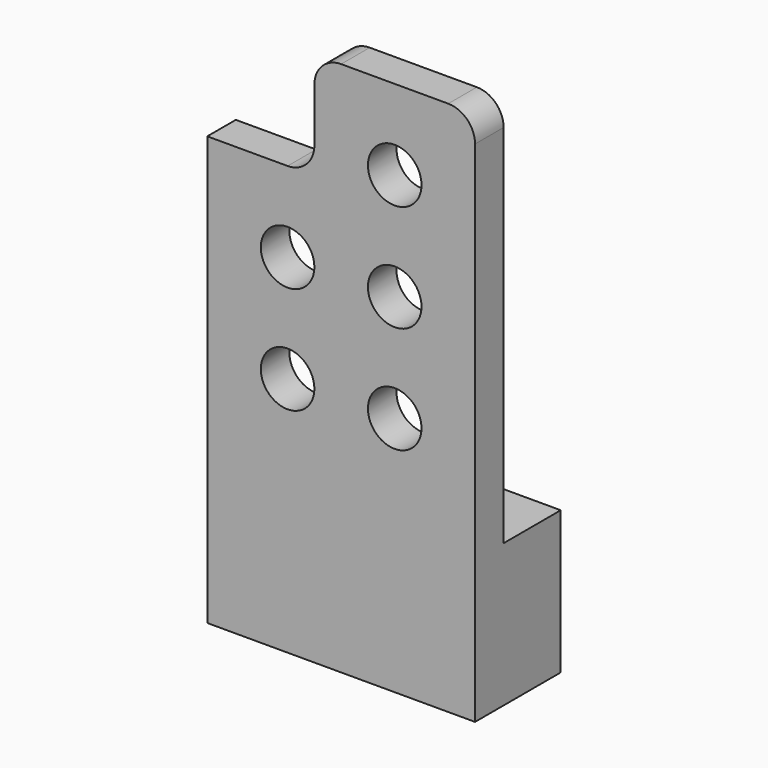
from build123d import *

# Parameters (mm, degrees)
F0_W      = 15
F0_H      = 15
F1_DEPTH  = 2
F2_R      = 1.5
F3_DEPTH  = 25
F4_W      = 9
F4_H      = 2
F5_DEPTH  = 6
F6_R      = 1.5
F7_DEPTH  = 25
F8_R      = 1.5
F9_W      = 15
F9_H      = 2
F10_DEPTH = 1
F11_W     = 15
F11_H     = 6
F12_DEPTH = 8


with BuildPart() as f1:
    # F0 (on Front) → F1 (new body)
    with BuildSketch(Plane.XZ):
        Rectangle(F0_W, F0_H)
    extrude(amount=F1_DEPTH)

    # F2 (on face) → F3 (cut)
    with BuildSketch(Plane.XZ.offset(2)):
        with Locations((3, 3)):
            Circle(F2_R)
        with Locations((-3, 3)):
            Circle(F2_R)
        with Locations((-3, -3)):
            Circle(F2_R)
        with Locations((3, -3)):
            Circle(F2_R)
    extrude(amount=-F3_DEPTH, mode=Mode.SUBTRACT)

    # F4 (on face) → F5 (join)
    with BuildSketch(Plane.XY.offset(7.5)):
        with Locations((3, -1)):
            Rectangle(F4_W, F4_H)
    extrude(amount=F5_DEPTH)

    # F6 (on face) → F7 (cut)
    with BuildSketch(Plane.XZ.offset(2)):
        with Locations((3, 9)):
            Circle(F6_R)
    extrude(amount=-F7_DEPTH, mode=Mode.SUBTRACT)

    # F8
    f8_edges = [f1.edges().sort_by_distance(p)[0] for p in [
        (7.5, -1, 13.5),
        (-1.5, -1, 13.5),
        (-1.5, -1, 7.5),
    ]]
    fillet(f8_edges, radius=F8_R)

    # F9 (on face) → F10 (join)
    with BuildSketch(Plane(origin=(0, 0, -7.5), x_dir=(1, 0, 0), z_dir=(0, 0, -1))):
        with Locations((0, 1)):
            Rectangle(F9_W, F9_H)
    extrude(amount=F10_DEPTH)

    # F11 (on face) → F12 (join)
    with BuildSketch(Plane(origin=(0, 0, -8.5), x_dir=(1, 0, 0), z_dir=(0, 0, -1))):
        with Locations((0, -1)):
            Rectangle(F11_W, F11_H)
    extrude(amount=F12_DEPTH)


solid = f1.part
